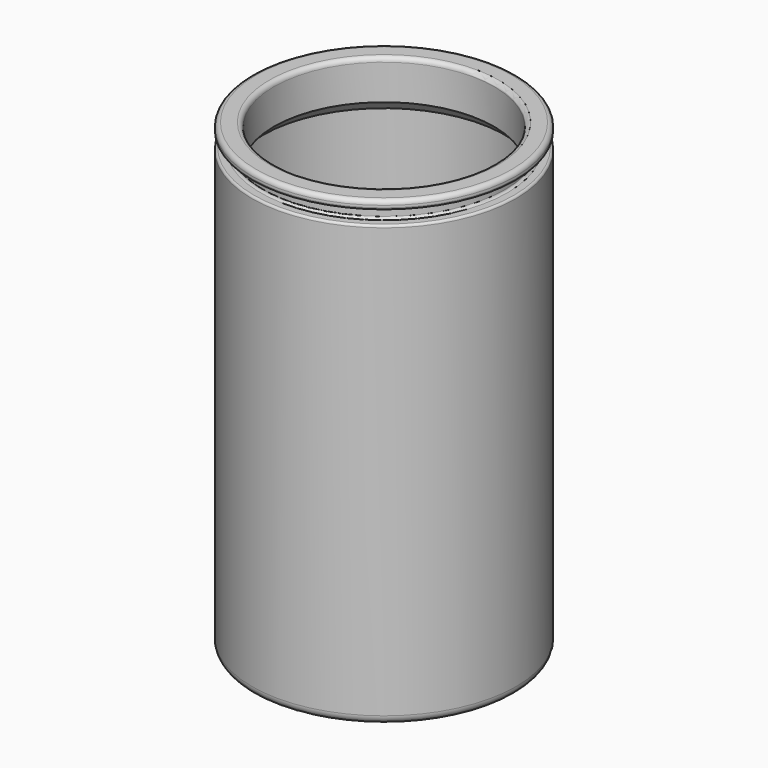
from build123d import *


with BuildPart() as f1:
    # F0 (on Front) → F1 (revolve)
    with BuildSketch(Plane.XZ):
        with BuildLine():
            Line((25.5, -15.621903), (0, -15.621903))
            Line((0, -15.621903), (0, -17.621903))
            Line((0, -17.621903), (28, -17.621903))
            ThreePointArc((28, -17.621903), (29.414214, -17.036116), (30, -15.621903))
            Line((30, -15.621903), (30, 81.878097))
            ThreePointArc((30, 81.878097), (29.853553, 82.231651), (29.5, 82.378097))
            Line((29.5, 82.378097), (28, 82.378097))
            ThreePointArc((28, 82.378097), (27.646447, 82.524544), (27.5, 82.878097))
            Line((27.5, 82.878097), (27.5, 84.878097))
            ThreePointArc((27.5, 84.878097), (27.646447, 85.231651), (28, 85.378097))
            Line((28, 85.378097), (29.5, 85.378097))
            ThreePointArc((29.5, 85.378097), (29.853553, 85.524544), (30, 85.878097))
            Line((30, 85.878097), (30, 86.378097))
            ThreePointArc((30, 86.378097), (29.707107, 87.085204), (29, 87.378097))
            Line((29, 87.378097), (26, 87.378097))
            ThreePointArc((26, 87.378097), (25.292893, 87.085204), (25, 86.378097))
            Line((25, 86.378097), (25, 78.378097))
            Line((25, 78.378097), (27.5, 75.878097))
            Line((27.5, 75.878097), (27.5, -13.621903))
            ThreePointArc((27.5, -13.621903), (26.914214, -15.036116), (25.5, -15.621903))
        make_face()
    revolve(axis=Axis((0, 0, -16.621903), (0, 0, -1)))


solid = f1.part
